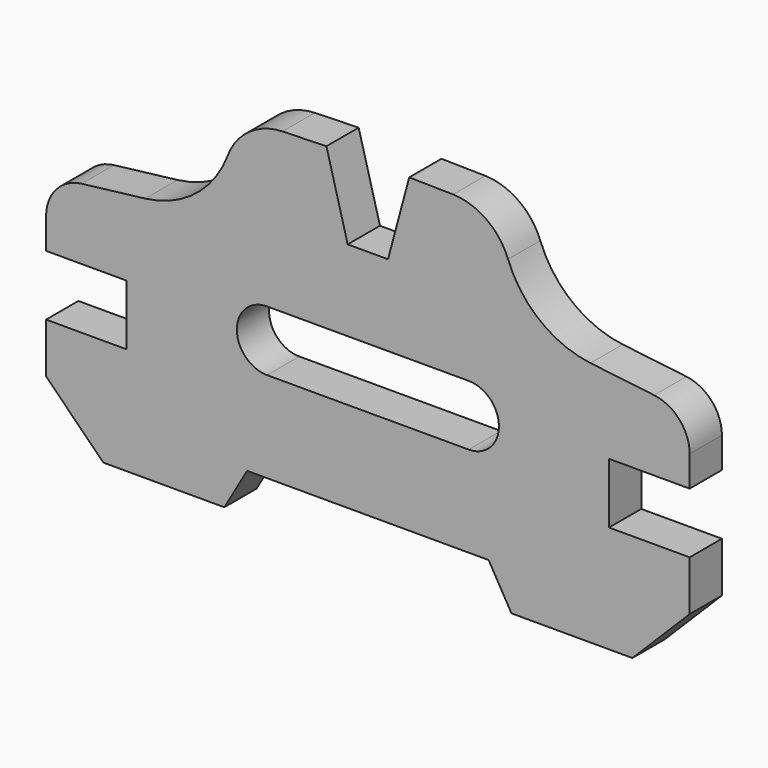
from build123d import *

# Parameters (mm, degrees)
F1_DEPTH = 12.7
F2_SIZE  = 18.034


with BuildPart() as f1:
    # F0 (on Front) → F1 (new body)
    with BuildSketch(Plane.XZ):
        with BuildLine():
            Line((0, -38.438334), (38.026299, -38.438334))
            Line((38.026299, -38.438334), (45.212, -50.884334))
            Line((45.212, -50.884334), (101.346, -50.884334))
            Line((101.346, -50.884334), (101.346, -17.102334))
            Line((101.346, -17.102334), (75.946, -17.102334))
            Line((75.946, -17.102334), (75.946, 1.947666))
            Line((75.946, 1.947666), (101.346, 1.947666))
            Line((101.346, 1.947666), (101.346, 11.599666))
            ThreePointArc((101.346, 11.599666), (98.143548, 20.030951), (90.151264, 24.210145))
            Line((90.151264, 24.210145), (70.104, 26.603108))
            ThreePointArc((70.104, 26.603108), (54.27886, 33.142088), (44.150944, 46.94856))
            ThreePointArc((44.150944, 46.94856), (37.382747, 55.749626), (26.857274, 59.282568))
            Line((26.857274, 59.282568), (13.01387, 59.514471))
            Line((13.01387, 59.514471), (6.35, 34.644568))
            Line((6.35, 34.644568), (0, 34.644568))
            Line((0, 34.644568), (-6.35, 34.644568))
            Line((-6.35, 34.644568), (-13.055836, 59.671088))
            Line((-13.055836, 59.671088), (-26.857274, 59.282568))
            ThreePointArc((-26.857274, 59.282568), (-37.382747, 55.749626), (-44.150944, 46.94856))
            ThreePointArc((-44.150944, 46.94856), (-54.27886, 33.142088), (-70.104, 26.603108))
            Line((-70.104, 26.603108), (-90.151264, 24.210145))
            ThreePointArc((-90.151264, 24.210145), (-98.143548, 20.030951), (-101.346, 11.599666))
            Line((-101.346, 11.599666), (-101.346, 1.947666))
            Line((-101.346, 1.947666), (-75.946, 1.947666))
            Line((-75.946, 1.947666), (-75.946, -17.102334))
            Line((-75.946, -17.102334), (-101.346, -17.102334))
            Line((-101.346, -17.102334), (-101.346, -50.884334))
            Line((-101.346, -50.884334), (-45.212, -50.884334))
            Line((-45.212, -50.884334), (-38.026299, -38.438334))
            Line((-38.026299, -38.438334), (0, -38.438334))
        make_face()
        with BuildLine():
            Line((-31.75, 9.186666), (0, 9.186666))
            Line((0, 9.186666), (31.75, 9.186666))
            ThreePointArc((31.75, 9.186666), (41.275, -0.338334), (31.75, -9.863334))
            Line((31.75, -9.863334), (0, -9.863334))
            Line((0, -9.863334), (-31.75, -9.863334))
            ThreePointArc((-31.75, -9.863334), (-41.275, -0.338334), (-31.75, 9.186666))
        make_face(mode=Mode.SUBTRACT)
    extrude(amount=F1_DEPTH)

    # F2
    f2_edges = [f1.edges().sort_by_distance(p)[0] for p in [
        (-101.346, -6.35, -50.884334),
        (101.346, -6.35, -50.884334),
    ]]
    chamfer(f2_edges, length=F2_SIZE)


solid = f1.part
